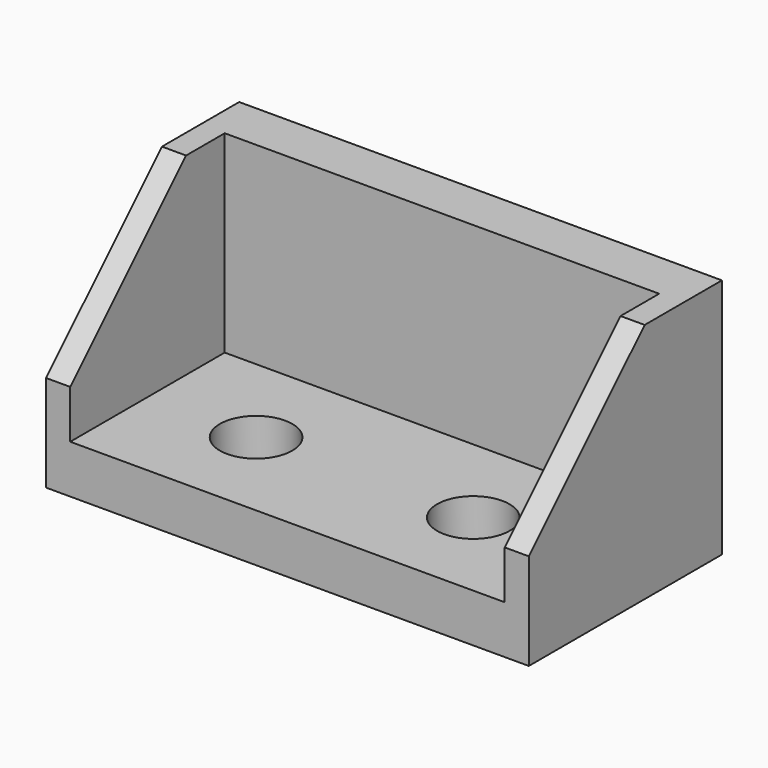
from build123d import *

# Parameters (mm, degrees)
F0_W     = 100
F0_H     = 50
F1_DEPTH = 50
F2_T     = -10
F3_R     = 7.5
F4_DEPTH = 10.001
F5_W     = 5
F5_H     = 40
F6_DEPTH = 40
F7_SIZE  = 30


with BuildPart() as f1:
    # F0 (on Top) → F1 (new body)
    with BuildSketch(Plane.XY):
        with Locations((50, 25)):
            Rectangle(F0_W, F0_H)
    extrude(amount=F1_DEPTH)

    # F2
    f2_openings = [f1.faces().sort_by_distance(p)[0] for p in [
        (50, 25, 50),
        (50, 0, 25),
        (100, 25, 25),
        (0, 25, 25),
    ]]
    offset(amount=F2_T, openings=f2_openings)

    # F3 (on face) → F4 (cut, through all)
    with BuildSketch(Plane.XY.offset(10)):
        with Locations((27.5, 20)):
            Circle(F3_R)
        with Locations((72.5, 20)):
            Circle(F3_R)
    extrude(amount=-F4_DEPTH, mode=Mode.SUBTRACT)

    # F5 (on face) → F6 (join)
    with BuildSketch(Plane.XY.offset(10)):
        with Locations((2.5, 20)):
            Rectangle(F5_W, F5_H)
        with Locations((97.5, 20)):
            Rectangle(F5_W, F5_H)
    extrude(amount=F6_DEPTH)

    # F7
    f7_edges = [f1.edges().sort_by_distance(p)[0] for p in [
        (2.5, 0, 50),
        (97.5, 0, 50),
    ]]
    chamfer(f7_edges, length=F7_SIZE)


solid = f1.part
